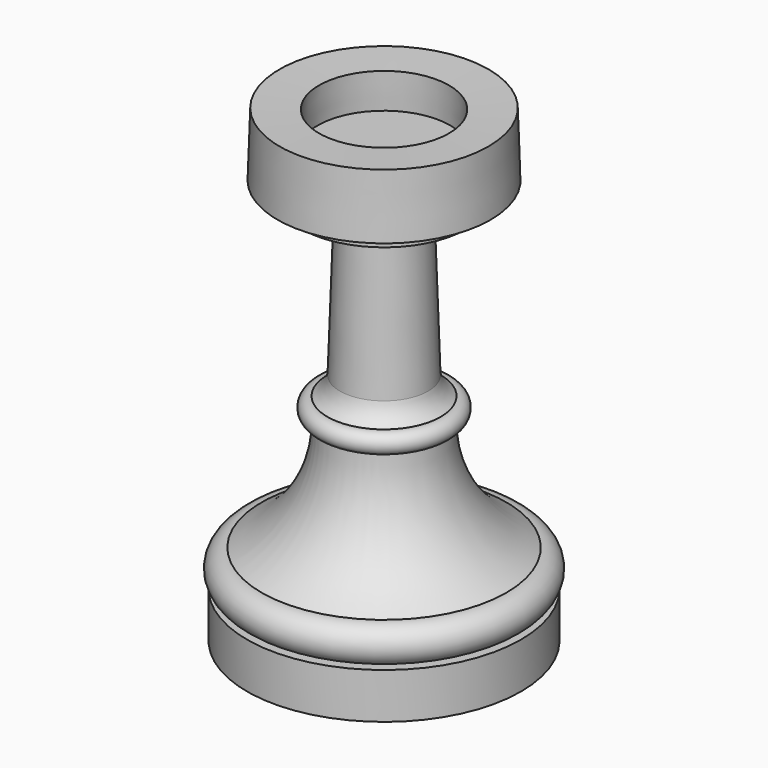
from build123d import *


with BuildPart() as f1:
    # F0 (on Front) → F1 (revolve)
    with BuildSketch(Plane.XZ):
        with BuildLine():
            Line((0, 30.039364), (0, 0))
            Line((0, 0), (9.525, 0))
            Line((9.525, 0), (9.525, 3.175))
            Line((9.525, 3.175), (8.509, 3.175))
            ThreePointArc((8.509, 3.175), (9.779, 4.445), (8.509, 5.715))
            ThreePointArc((8.509, 5.715), (5.104414, 9.002498), (3.937, 13.589))
            ThreePointArc((3.937, 13.589), (4.711239, 14.288362), (3.937, 14.987725))
            ThreePointArc((3.937, 14.987725), (3.375303, 15.547186), (3.070435, 16.279003))
            Line((3.070435, 16.279003), (2.716308, 27.044144))
            Line((2.716308, 27.044144), (3.585354, 27.072731))
            Line((3.585354, 27.072731), (5.753646, 27.072731))
            Line((5.753646, 27.072731), (5.753646, 28.175991))
            Line((5.753646, 28.175991), (7.409977, 28.175991))
            Line((7.409977, 28.175991), (7.263928, 32.615766))
            Line((7.263928, 32.615766), (4.518156, 32.525442))
            Line((4.518156, 32.525442), (4.614918, 30.039364))
            Line((4.614918, 30.039364), (0, 30.039364))
        make_face()
    revolve(axis=Axis((0, 0, 15.019682), (0, 0, -1)))


solid = f1.part
